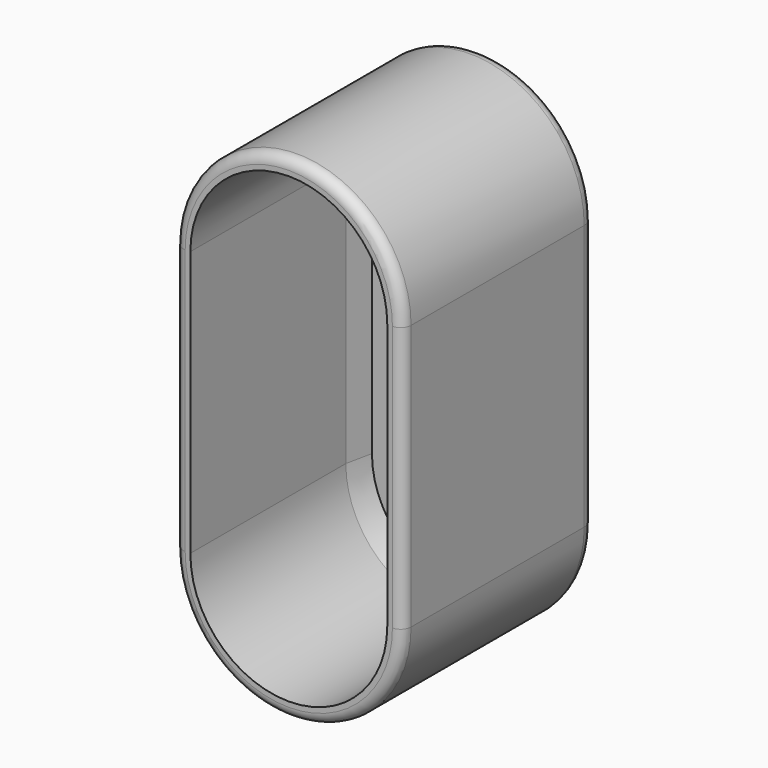
from build123d import *

# Parameters (mm, degrees)
F1_DEPTH  = 15
F5_DEPTH  = 2
F10_DEPTH = 1.5
F11_R     = 1
F12_R     = 0.8


with BuildPart() as f1:
    # F0 (on Front) → F1 (new body)
    with BuildSketch(Plane.XZ):
        with BuildLine():
            Line((8.8, 0), (8.8, 20.5))
            ThreePointArc((8.8, 20.5), (0, 29.3), (-8.8, 20.5))
            Line((-8.8, 20.5), (-8.8, 0))
            ThreePointArc((-8.8, 0), (0, -8.8), (8.8, 0))
        make_face()
        with BuildLine():
            ThreePointArc((-7.6, 20.5), (0, 28.1), (7.6, 20.5))
            Line((7.6, 20.5), (7.6, 0))
            ThreePointArc((7.6, 0), (0, -7.6), (-7.6, 0))
            Line((-7.6, 0), (-7.6, 20.5))
        make_face(mode=Mode.SUBTRACT)
    extrude(amount=F1_DEPTH)

    # F4 (on face) → F5 (join)
    with BuildSketch(Plane(origin=(0, 0, 0), x_dir=(-1, 0, 0), z_dir=(0, 1, 0))):
        with BuildLine():
            ThreePointArc((8.8, 20.5), (0, 29.3), (-8.8, 20.5))
            Line((-8.8, 20.5), (-8.8, 0))
            ThreePointArc((-8.8, 0), (0, -8.8), (8.8, 0))
            Line((8.8, 0), (8.8, 20.5))
        make_face()
    extrude(amount=F5_DEPTH)

    # F3 (on offset) → F8 section 0
    with BuildSketch(Plane(origin=(0, 2.4, 0), x_dir=(-1, 0, 0), z_dir=(0, 1, 0))):
        with BuildLine():
            ThreePointArc((7.1, 20.5), (0, 27.6), (-7.1, 20.5))
            Line((-7.1, 20.5), (-7.1, 0))
            ThreePointArc((-7.1, 0), (0, -7.1), (7.1, 0))
            Line((7.1, 0), (7.1, 20.5))
        make_face()
    # F7 (on offset) → F8 section 1
    with BuildSketch(Plane(origin=(0, 0, 0), x_dir=(-1, 0, 0), z_dir=(0, 1, 0))):
        with BuildLine():
            Line((7.6, 0), (7.6, 20.5))
            ThreePointArc((7.6, 20.5), (0, 28.1), (-7.6, 20.5))
            Line((-7.6, 20.5), (-7.6, 0))
            ThreePointArc((-7.6, 0), (0, -7.6), (7.6, 0))
        make_face()
    loft(mode=Mode.SUBTRACT)

    # F9 (on face) → F10 (join)
    with BuildSketch(Plane(origin=(0, 2, 0), x_dir=(-1, 0, 0), z_dir=(0, 1, 0))):
        with BuildLine():
            ThreePointArc((8.8, 20.5), (0, 29.3), (-8.8, 20.5))
            Line((-8.8, 20.5), (-8.8, 0))
            ThreePointArc((-8.8, 0), (0, -8.8), (8.8, 0))
            Line((8.8, 0), (8.8, 20.5))
        make_face()
    extrude(amount=F10_DEPTH)

    # F11
    f11_edges = [f1.edges().sort_by_distance(p)[0] for p in [
        (0, 3.5, -8.8),
    ]]
    fillet(f11_edges, radius=F11_R)

    # F12
    f12_edges = [f1.edges().sort_by_distance(p)[0] for p in [
        (8.8, -15, 10.25),
    ]]
    fillet(f12_edges, radius=F12_R)


solid = f1.part
